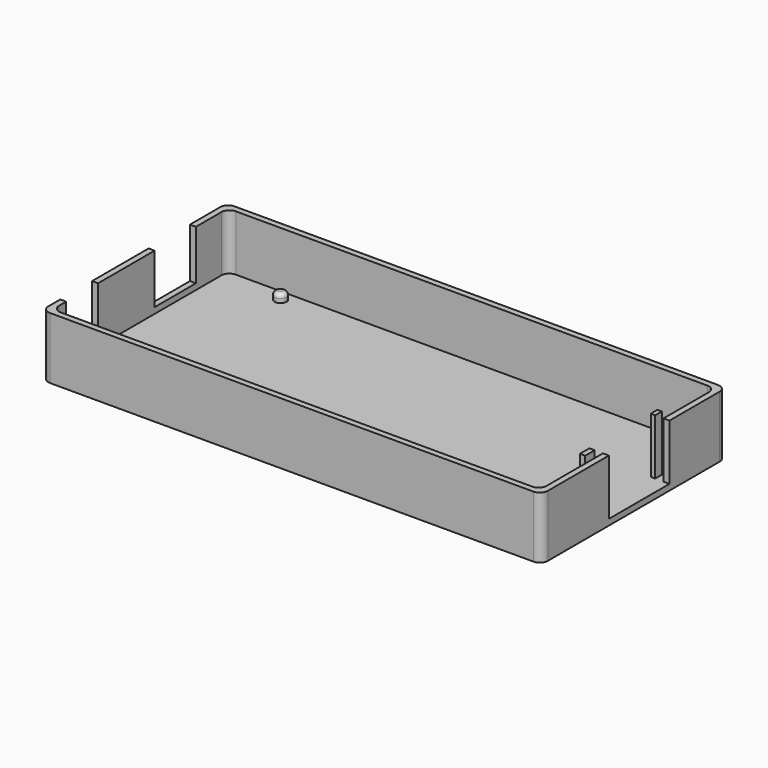
from build123d import *

# Parameters (mm, degrees)
F0_W      = 125.5
F0_H      = 58
F1_DEPTH  = 15.5
F2_W      = 122.5
F2_H      = 55
F3_DEPTH  = 14
F4_W      = 1.5
F4_H      = 13
F4_H_2    = 10
F5_DEPTH  = 12.5
F6_R      = 1.5
F7_DEPTH  = 2
F8_R      = 1
F9_R      = 2
F10_R     = 2
F11_W     = 1.5
F11_H     = 19
F12_DEPTH = 14
F13_W     = 1.1
F13_H     = 2.109523
F13_W_2   = 1.309524
F13_H_2   = 2.976188
F14_DEPTH = 14


with BuildPart() as f1:
    # F0 (on Top) → F1 (new body)
    with BuildSketch(Plane.XY):
        with Locations((10.529152, 5.640338)):
            Rectangle(F0_W, F0_H)
    extrude(amount=F1_DEPTH)

    # F2 (on face) → F3 (cut)
    with BuildSketch(Plane.XY.offset(15.5)):
        with Locations((10.529152, 5.640338)):
            Rectangle(F2_W, F2_H)
    extrude(amount=-F3_DEPTH, mode=Mode.SUBTRACT)

    # F4 (on face) → F5 (cut)
    with BuildSketch(Plane.XY.offset(15.5)):
        with Locations((-51.470848, 16.640338)):
            Rectangle(F4_W, F4_H)
        with Locations((-51.470848, -12.609662)):
            Rectangle(F4_W, F4_H_2)
    extrude(amount=-F5_DEPTH, mode=Mode.SUBTRACT)

    # F6 (on face) → F7 (join)
    with BuildSketch(Plane.XY.offset(1.5)):
        with Locations((-35.220848, 30.340338)):
            Circle(F6_R)
        with Locations((59.979152, 30.340338)):
            Circle(F6_R)
        with Locations((66.779152, -19.059662)):
            Circle(F6_R)
        with Locations((-36.220848, -19.059662)):
            Circle(F6_R)
    extrude(amount=F7_DEPTH)

    # F8
    f8_edges = [f1.edges().sort_by_distance(p)[0] for p in [
        (-36.720848, 30.340338, 3.5),
        (58.479152, 30.340338, 3.5),
        (-37.720848, -19.059662, 3.5),
        (65.279152, -19.059662, 3.5),
    ]]
    fillet(f8_edges, radius=F8_R)

    # F9
    f9_edges = [f1.edges().sort_by_distance(p)[0] for p in [
        (-52.220848, 34.640338, 7.75),
        (-52.220848, -23.359662, 7.75),
        (73.279152, -23.359662, 7.75),
        (73.279152, 34.640338, 7.75),
    ]]
    fillet(f9_edges, radius=F9_R)

    # F10
    f10_edges = [f1.edges().sort_by_distance(p)[0] for p in [
        (-50.720848, 33.140338, 8.5),
        (71.779152, -21.859662, 8.5),
        (71.779152, 33.140338, 8.5),
        (-50.720848, -21.859662, 8.5),
    ]]
    fillet(f10_edges, radius=F10_R)

    # F11 (on face) → F12 (cut)
    with BuildSketch(Plane.XY.offset(15.5)):
        with Locations((72.529152, 7.359652)):
            Rectangle(F11_W, F11_H)
    extrude(amount=-F12_DEPTH, mode=Mode.SUBTRACT)

    # F13 (on face) → F14 (join)
    with BuildSketch(Plane.XY.offset(15.5)):
        with Locations((69.129152, 17.914414)):
            Rectangle(F13_W, F13_H)
        with Locations((69.02439, -3.628442)):
            Rectangle(F13_W_2, F13_H_2)
    extrude(amount=-F14_DEPTH)


solid = f1.part
